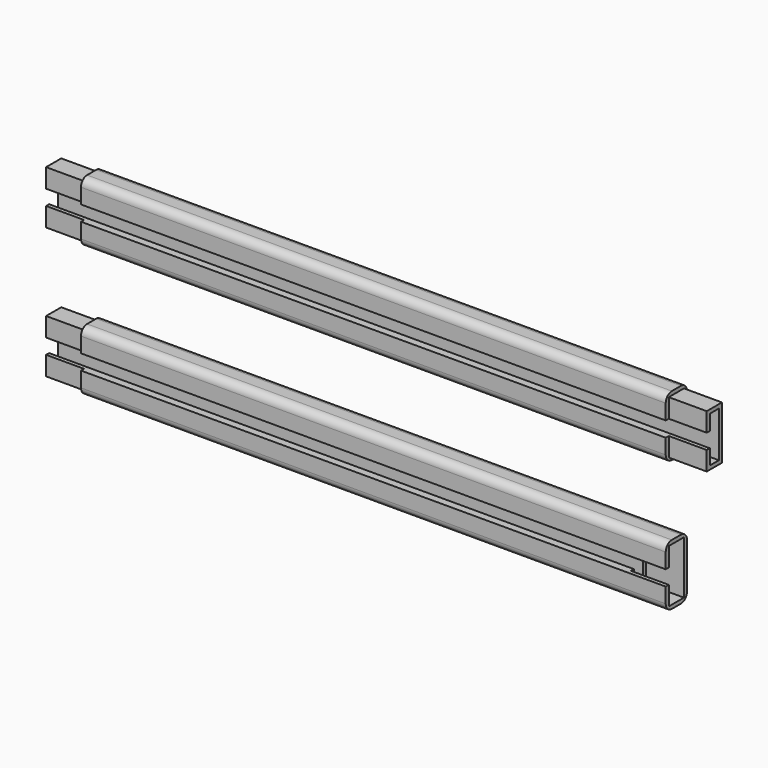
from build123d import *

# Parameters (mm, degrees)
F0_W      = 164
F0_H      = 16
F1_DEPTH  = 7
F3_DEPTH  = 164.001
F5_DEPTH  = 10
F7_DEPTH  = 10
F8_R      = 2
F10_DEPTH = 20


with BuildPart() as f1:
    # F0 (on Front) → F1 (new body)
    with BuildSketch(Plane.XZ):
        with Locations((62.3839493543, 17.2579787597)):
            Rectangle(F0_W, F0_H)
    extrude(amount=F1_DEPTH)

    # F2 (on face) → F3 (cut, through all)
    with BuildSketch(Plane.YZ.offset(144.3839493543)):
        Polygon((-7, 19.2579787597), (-7, 15.2579787597), (-5, 15.2579787597), (-5, 11.2579787597), (-2, 11.2579787597), (-2, 23.2579787597), (-5, 23.2579787597), (-5, 19.2579787597), align=None)
    extrude(amount=-F3_DEPTH, mode=Mode.SUBTRACT)

    # F4 (on face) → F5 (join)
    with BuildSketch(Plane.YZ.offset(144.3839493543)):
        Polygon((-6, 15.2579787597), (-6, 10.2579787597), (-1, 10.2579787597), (-1, 24.2579787597), (-6, 24.2579787597), (-6, 19.2579787597), (-5, 19.2579787597), (-5, 23.2579787597), (-2, 23.2579787597), (-2, 11.2579787597), (-5, 11.2579787597), (-5, 15.2579787597), align=None)
    extrude(amount=F5_DEPTH)

    # F6 (on face) → F7 (cut)
    with BuildSketch(Plane(origin=(-19.6160506457, 0, 0), x_dir=(0, -1, 0), z_dir=(-1, 0, 0))):
        Polygon((1, 24.2579787597), (6, 24.2579787597), (6, 19.2579787597), (7, 19.2579787597), (7, 25.2579787597), (0, 25.2579787597), (0, 9.2579787597), (7, 9.2579787597), (7, 15.2579787597), (6, 15.2579787597), (6, 10.2579787597), (1, 10.2579787597), align=None)
    extrude(amount=-F7_DEPTH, mode=Mode.SUBTRACT)

    # F8
    f8_edges = [f1.edges().sort_by_distance(p)[0] for p in [
        (67.383949, -7, 25.257979),
        (67.383949, -7, 9.257979),
        (67.383949, 0, 25.257979),
        (67.383949, 0, 9.257979),
    ]]
    fillet(f8_edges, radius=F8_R)


with BuildPart() as f9_1:
    # F9: instance of F1
    add(f1.part.mirror(Plane.XY))

    # F10 (cut): a face of the model
    f10_faces = [f9_1.faces().sort_by_distance(p)[0] for p in [
        (154.3839493543, -5.8513393125, -12.7579787597),
    ]]
    extrude(f10_faces, amount=-F10_DEPTH, mode=Mode.SUBTRACT)


solid = Compound([f1.part, f9_1.part])
